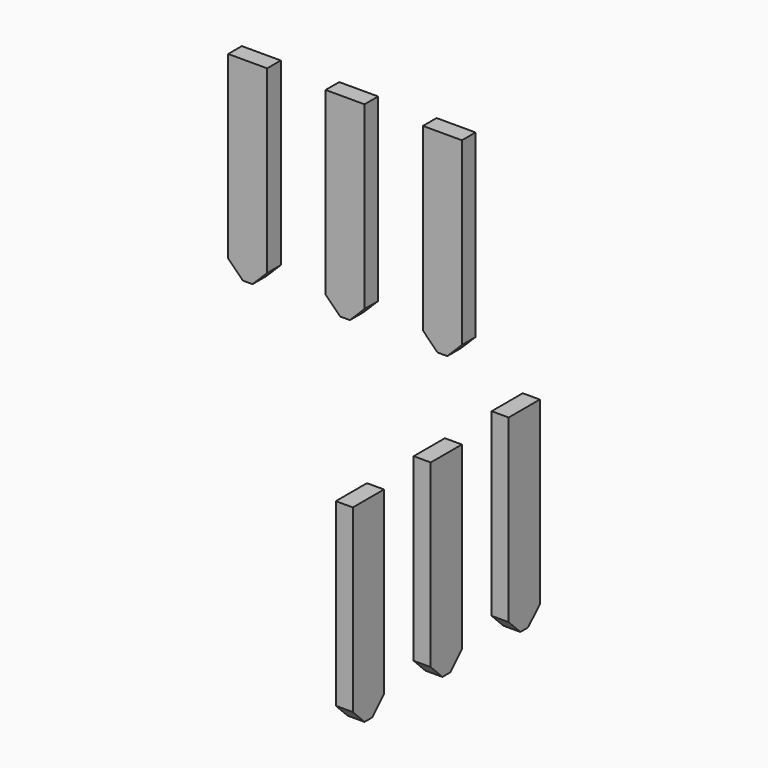
from build123d import *

# Parameters (mm, degrees)
BOX039_W         = 0.35
BOX039_H         = 0.8
BOX039_DEPTH     = 4
CHAMFER025_SIZE  = 0.3
ARRAY001_Y_COUNT = 3
ARRAY001_Y_PITCH = 2
ARRAY002_COUNT   = 2
ARRAY002_ANGLE   = 90


with BuildPart() as part:
    # Box039 → Box039 (new body)
    with BuildSketch(Plane(origin=(8.65, -2.4, -3), x_dir=(1, 0, 0), z_dir=(0, 0, 1))):
        with Locations((0.175, 0.4)):
            Rectangle(BOX039_W, BOX039_H)
    extrude(amount=BOX039_DEPTH)

    # Chamfer025
    chamfer025_edges = [part.edges().sort_by_distance(p)[0] for p in [
        (8.825, -2.4, -3),
        (8.825, -1.6, -3),
    ]]
    chamfer(chamfer025_edges, length=CHAMFER025_SIZE)

    # Array001 Y: part ×3


with BuildPart() as part_1:
    add(part.part)
    with Locations(*[(0, i * ARRAY001_Y_PITCH, 0) for i in range(1, ARRAY001_Y_COUNT)]):
        add(part.part)

    # Array002: part ×2 about axis
    array002_axis = Axis((0, 0, 0), (0, 0, 1))


with BuildPart() as part_2:
    add(part_1.part)
    for i in range(1, ARRAY002_COUNT):
        add(part_1.part.rotate(array002_axis, i * ARRAY002_ANGLE / (ARRAY002_COUNT - 1)))


solid = part_2.part
